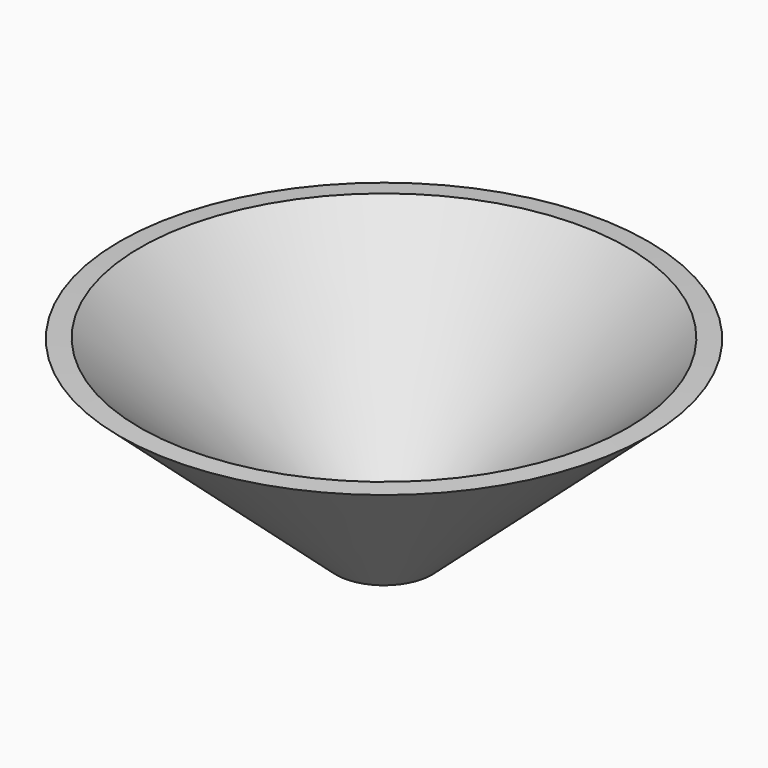
from build123d import *

# Parameters (mm, degrees)
F2_DEPTH = 25.4


with BuildPart() as f1:
    # F0 (on Front) → F1 (revolve)
    with BuildSketch(Plane.XZ):
        Polygon((-12.7, 0), (0, 0), (0, 25.4), (56.9555222519, 76.0212256372), (51.6306105411, 76.2954482449), (-5.08, 25.4), (-12.7, 25.4), align=None)
    revolve(axis=Axis((-12.7, 0, 12.7), (0, 0, 1)))

    # F2 (cut): a face of the model
    f2_faces = [f1.faces().sort_by_distance(p)[0] for p in [
        (-12.7, 0, 0),
    ]]
    extrude(f2_faces, amount=-F2_DEPTH, mode=Mode.SUBTRACT)


solid = f1.part
